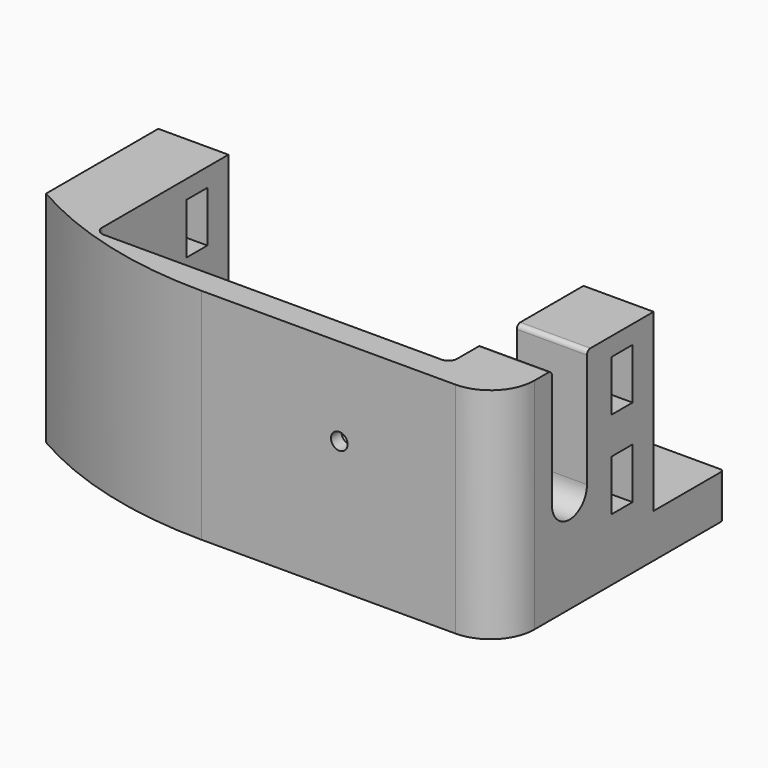
from build123d import *

# Parameters (mm, degrees)
SKETCH125_W     = 56.5
SKETCH125_H     = 22
PAD023_DEPTH    = 25
SKETCH126_W     = 40.5
SKETCH126_H     = 19
POCKET095_DEPTH = 20
POCKET096_DEPTH = 25
SKETCH128_W     = 3
SKETCH128_H     = 5.8
POCKET098_DEPTH = 56.5
SKETCH130_R     = 1.6
POCKET099_DEPTH = 8.5
POCKET100_DEPTH = 8
FILLET035_R     = 0.5
SKETCH132_R     = 0.95
POCKET101_DEPTH = 3
POCKET102_DEPTH = 1.5
FILLET036_R     = 5
FILLET037_R     = 1
SKETCH_W        = 56.5
SKETCH_H        = 5
PAD_DEPTH       = 10
FILLET_R        = 0.4


with BuildPart() as part:
    # Sketch125 → Pad023 (new body)
    with BuildSketch(Plane.XY):
        with Locations((28.25, -11)):
            Rectangle(SKETCH125_W, SKETCH125_H)
    extrude(amount=PAD023_DEPTH)

    # Sketch126 (on Face6 of Pad023) → Pocket095 (cut)
    with BuildSketch(Plane.XY.offset(25)):
        with Locations((28.25, -9.5)):
            Rectangle(SKETCH126_W, SKETCH126_H)
    extrude(amount=-POCKET095_DEPTH, mode=Mode.SUBTRACT)

    # Sketch127 (on Face4 of Pocket095) → Pocket096 (cut)
    with BuildSketch(Plane.XY.offset(25)):
        with BuildLine():
            ThreePointArc((0, -16), (10.856869, -20.474241), (22.5, -22))
            Line((22.5, -22), (56.5, -22))
            Line((56.5, -22), (56.5, -23))
            Line((56.5, -23), (0, -23))
            Line((0, -23), (0, -16))
        make_face()
    extrude(amount=-POCKET096_DEPTH, mode=Mode.SUBTRACT)

    # Sketch128 (on Face3 of Pocket096) → Pocket098 (cut)
    with BuildSketch(Plane.YZ.offset(56.5)):
        with Locations((-4.5, 20)):
            Rectangle(SKETCH128_W, SKETCH128_H)
        with Locations((-4.5, 10)):
            Rectangle(SKETCH128_W, SKETCH128_H)
    extrude(amount=-POCKET098_DEPTH, mode=Mode.SUBTRACT)

    # Sketch130 (on Face1 of Pocket098) → Pocket099 (cut)
    with BuildSketch(Plane(origin=(0, 0, 0), x_dir=(-1, 0, 0), z_dir=(0, 1, 0))):
        with Locations((-52.5, 20)):
            Circle(SKETCH130_R)
        with Locations((-52.5, 10)):
            Circle(SKETCH130_R)
        with Locations((-4, 20)):
            Circle(SKETCH130_R)
        with Locations((-4, 10)):
            Circle(SKETCH130_R)
    extrude(amount=-POCKET099_DEPTH, mode=Mode.SUBTRACT)

    # Sketch131 (on Face4 of Pocket099) → Pocket100 (cut)
    with BuildSketch(Plane.YZ.offset(56.5)):
        with BuildLine():
            ThreePointArc((-14.5, 11.5), (-12, 9), (-9.5, 11.5))
            Line((-9.5, 25), (-9.5, 11.5))
            Line((-14.5, 25), (-9.5, 25))
            Line((-14.5, 11.5), (-14.5, 25))
        make_face()
    extrude(amount=-POCKET100_DEPTH, mode=Mode.SUBTRACT)

    # Fillet035
    fillet035_edges = [part.edges().sort_by_distance(p)[0] for p in [
        (52.5, -9.5, 25),
        (52.5, -14.5, 25),
    ]]
    fillet(fillet035_edges, radius=FILLET035_R)

    # Sketch132 (on Face4 of Fillet035) → Pocket101 (cut)
    with BuildSketch(Plane.XZ.offset(22)):
        with Locations((38.25, 15)):
            Circle(SKETCH132_R)
    extrude(amount=-POCKET101_DEPTH, mode=Mode.SUBTRACT)

    # Sketch133 (on Face22 of Pocket101) → Pocket102 (cut)
    with BuildSketch(Plane(origin=(0, -19, 0), x_dir=(-1, 0, 0), z_dir=(0, 1, 0))):
        Polygon((-36.2, 16.183568), (-38.25, 17.367136), (-40.3, 16.183568), (-40.3, 13.816432), (-38.25, 12.632864), (-36.2, 13.816432), align=None)
    extrude(amount=-POCKET102_DEPTH, mode=Mode.SUBTRACT)

    # Fillet036
    fillet036_edges = [part.edges().sort_by_distance(p)[0] for p in [
        (56.5, -22, 12.5),
    ]]
    fillet(fillet036_edges, radius=FILLET036_R)

    # Fillet037
    fillet037_edges = [part.edges().sort_by_distance(p)[0] for p in [
        (8, -19, 15),
        (48.5, -19, 15),
        (48.5, -9.5, 5),
        (28.25, -19, 5),
        (8, -9.5, 5),
    ]]
    fillet(fillet037_edges, radius=FILLET037_R)

    # Sketch (on Face11 of Fillet037) → Pad (join)
    with BuildSketch(Plane(origin=(0, 0, 0), x_dir=(-1, 0, 0), z_dir=(0, 1, 0))):
        with Locations((-28.25, 2.5)):
            Rectangle(SKETCH_W, SKETCH_H)
    extrude(amount=PAD_DEPTH)

    # Fillet
    fillet_edges = [part.edges().sort_by_distance(p)[0] for p in [
        (56.5, 10, 2.5),
        (0, 10, 2.5),
    ]]
    fillet(fillet_edges, radius=FILLET_R)


solid = part.part
